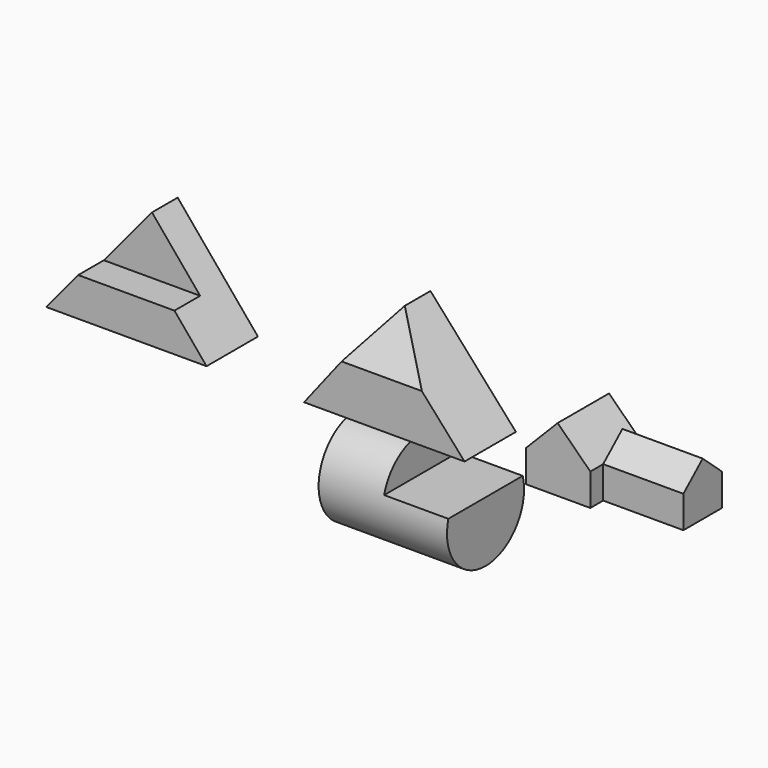
from build123d import *

# Parameters (mm, degrees)
F1_DEPTH  = 101.6
F3_DEPTH  = 50.8
F5_DEPTH  = 101.6
F8_DEPTH  = 241.3
F10_DEPTH = 101.6
F12_DEPTH = 127
F13_R     = 76.2
F14_DEPTH = 203.2
F16_DEPTH = 101.6


with BuildPart() as f1:
    # F0 (on Front) → F1 (new body)
    with BuildSketch(Plane.XZ):
        Polygon((0, 152.4), (-127, 0), (127, 0), align=None)
    extrude(amount=F1_DEPTH)

    # F2 (on face) → F3 (cut)
    with BuildSketch(Plane.XZ.offset(101.6)):
        Polygon((0, 152.4), (-76.2, 60.96), (76.2, 60.96), align=None)
    extrude(amount=-F3_DEPTH, mode=Mode.SUBTRACT)


with BuildPart() as f5:
    # F4 (on Front) → F5 (new body)
    with BuildSketch(Plane.XZ):
        Polygon((400.1002013683, 152.4), (281.3098678292, 0), (535.3098678292, 0), align=None)
    extrude(amount=F5_DEPTH)

    # F7 (on offset) → F8 (cut)
    with BuildSketch(Plane.YZ.offset(538.988)):
        Polygon((-101.6, 152.4), (-101.6, 76.2), (-50.8, 152.4), align=None)
    extrude(amount=-F8_DEPTH, mode=Mode.SUBTRACT)


with BuildPart() as f10:
    # F9 (on Front) → F10 (new body)
    with BuildSketch(Plane.XZ):
        Polygon((682.7224542772, 101.6), (632.8136901141, 50.8), (632.8136901141, 0), (734.4136901141, 0), (734.4136901141, 50.8), align=None)
    extrude(amount=F10_DEPTH)

    # F11 (on face) → F12 (join)
    with BuildSketch(Plane.YZ.offset(734.4136901141)):
        Polygon((-76.2, 0), (0, 0), (0, 50.8), (-38.1, 84.4010416505), (-76.2, 50.8), align=None)
    extrude(amount=F12_DEPTH)


with BuildPart() as f14:
    # F13 (on offset) → F14 (new body)
    with BuildSketch(Plane.YZ.offset(538.988)):
        with Locations((-64.6563246846, -83.2981318235)):
            Circle(F13_R)
    extrude(amount=-F14_DEPTH)

    # F15 (on face) → F16 (cut)
    with BuildSketch(Plane.YZ.offset(538.988)):
        with BuildLine():
            ThreePointArc((8.9774310058, -63.6892047005), (-64.6563246846, -7.0981318235), (-138.2900803751, -63.6892047005))
            Line((-138.2900803751, -63.6892047005), (8.9774310058, -63.6892047005))
        make_face()
    extrude(amount=-F16_DEPTH, mode=Mode.SUBTRACT)


solid = Compound([f1.part, f5.part, f10.part, f14.part])
